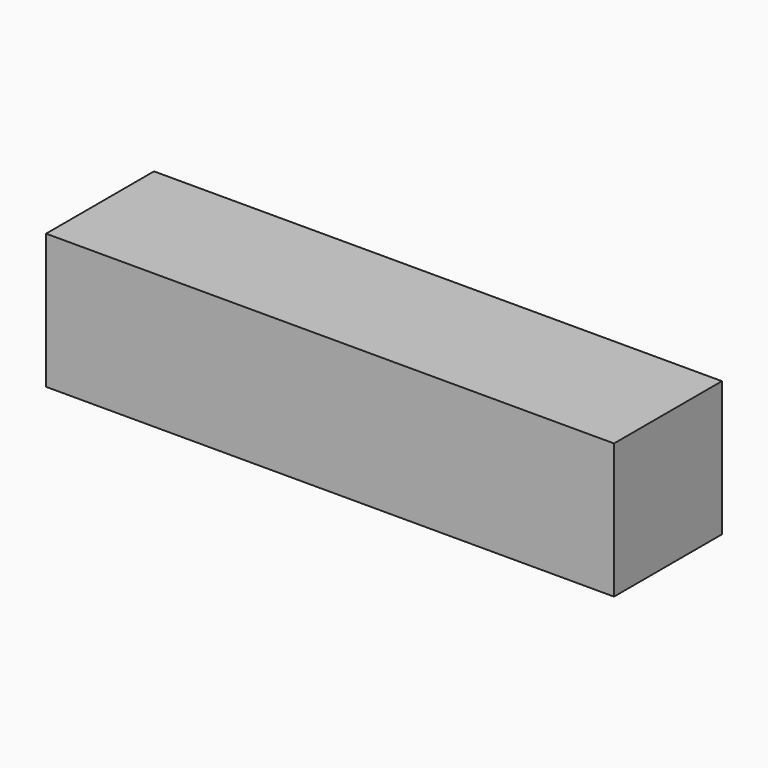
from build123d import *

# Parameters (mm, degrees)
F0_W     = 80
F0_H     = 19
F1_DEPTH = 19
F2_R     = 4
F3_DEPTH = 12
F2_R_2   = 5
F4_DEPTH = 2


with BuildPart() as f1:
    # F0 (on Top) → F1 (new body)
    with BuildSketch(Plane.XY):
        Rectangle(F0_W, F0_H)
    extrude(amount=F1_DEPTH)

    # F2 (on face) → F3 (cut)
    with BuildSketch(Plane(origin=(0, 9.5, 0), x_dir=(-1, 0, 0), z_dir=(0, 1, 0))):
        with Locations((20, 9.5)):
            Circle(F2_R)
        with Locations((-20, 9.5)):
            Circle(F2_R)
    extrude(amount=-F3_DEPTH, mode=Mode.SUBTRACT)

    # F2 (on face) → F4 (cut)
    with BuildSketch(Plane(origin=(0, 9.5, 0), x_dir=(-1, 0, 0), z_dir=(0, 1, 0))):
        with Locations((0, 9.5)):
            Circle(F2_R_2)
    extrude(amount=-F4_DEPTH, mode=Mode.SUBTRACT)


solid = f1.part
